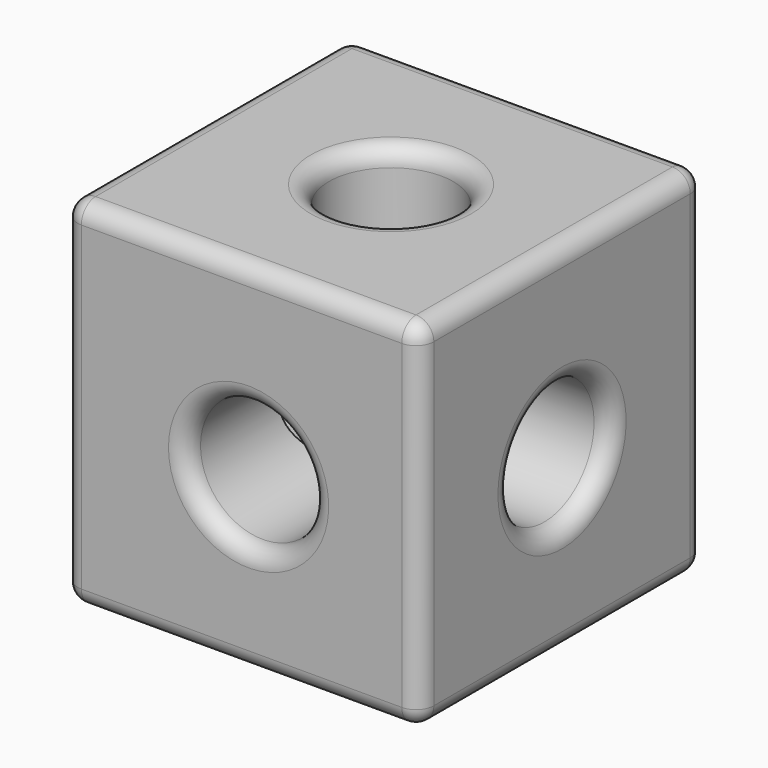
from build123d import *

# Parameters (mm, degrees)
F0_W     = 100
F0_H     = 100
F1_DEPTH = 50
F2_R     = 17.5
F3_DEPTH = 100
F4_R     = 17.5
F5_DEPTH = 100.001
F6_R     = 17.5
F7_DEPTH = 100.001
F8_R     = 5


with BuildPart() as f1:
    # F0 (on Front) → F1 (new body, symmetric)
    with BuildSketch(Plane.XZ):
        with Locations((-1.9696995616, 2.0075730979)):
            Rectangle(F0_W, F0_H)
    extrude(amount=F1_DEPTH, both=True)

    # F2 (on face) → F3 (cut, through all)
    with BuildSketch(Plane(origin=(-51.9696995616, 0, 0), x_dir=(0, -1, 0), z_dir=(-1, 0, 0))):
        Circle(F2_R)
    extrude(amount=-F3_DEPTH, mode=Mode.SUBTRACT)

    # F4 (on face) → F5 (cut, through all)
    with BuildSketch(Plane(origin=(0, 50, 0), x_dir=(-1, 0, 0), z_dir=(0, 1, 0))):
        Circle(F4_R)
    extrude(amount=-F5_DEPTH, mode=Mode.SUBTRACT)

    # F6 (on face) → F7 (cut, through all)
    with BuildSketch(Plane(origin=(0, 0, -47.9924269021), x_dir=(1, 0, 0), z_dir=(0, 0, -1))):
        Circle(F6_R)
    extrude(amount=-F7_DEPTH, mode=Mode.SUBTRACT)

    # F8
    f8_edges = [f1.edges().sort_by_distance(p)[0] for p in [
        (-17.5, 0, -47.992427),
        (17.5, 50, 0),
        (-17.5, 0, 52.007573),
        (17.5, -50, 0),
        (48.0303, 17.5, 0),
        (-51.9697, 17.5, 0),
        (48.0303, 50, 2.007573),
        (-1.9697, 50, 52.007573),
        (-51.9697, 0, 52.007573),
        (-51.9697, 50, 2.007573),
        (-51.9697, -50, 2.007573),
        (-1.9697, 50, -47.992427),
        (48.0303, 0, -47.992427),
        (48.0303, -50, 2.007573),
        (48.0303, 0, 52.007573),
        (-1.9697, -50, -47.992427),
        (-51.9697, 0, -47.992427),
        (-1.9697, -50, 52.007573),
    ]]
    fillet(f8_edges, radius=F8_R)


solid = f1.part
